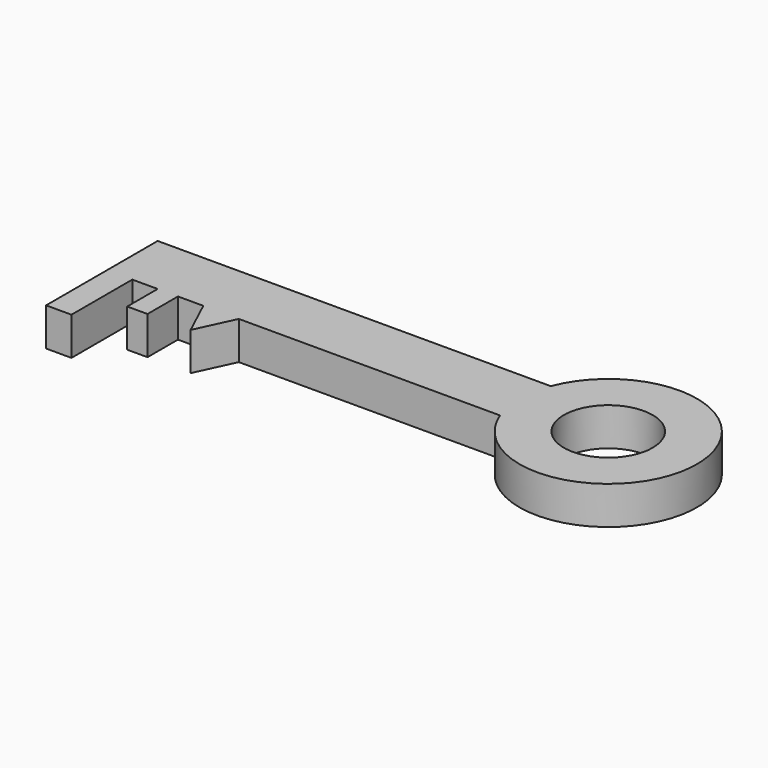
from build123d import *

# Parameters (mm, degrees)
F0_W     = 10
F0_H     = 30
F0_W_2   = 8
F0_H_2   = 15
F0_R     = 17.5
F1_DEPTH = 15


with BuildPart() as f1:
    # F0 (on Top) → F1 (new body)
    with BuildSketch(Plane.XY):
        with Locations((-56.75886, -44.358979)):
            Rectangle(F0_W, F0_H)
        with Locations((-37.75886, -36.858979)):
            Rectangle(F0_W_2, F0_H_2)
        Polygon((-16.75886, -44.358979), (-9.75886, -29.358979), (-23.75886, -29.358979), align=None)
        Polygon((93.24114, -4.358979), (-61.75886, -4.358979), (-61.75886, -29.358979), (-51.75886, -29.358979), (-41.75886, -29.358979), (-33.75886, -29.358979), (-23.75886, -29.358979), (-9.75886, -29.358979), (93.24114, -29.358979), align=None)
        with BuildLine():
            ThreePointArc((93.24114, -29.358979), (160.932882, -16.858979), (93.24114, -4.358979))
            Line((93.24114, -4.358979), (93.24114, -29.358979))
        make_face()
        with Locations((125.932882, -16.858979)):
            Circle(F0_R, mode=Mode.SUBTRACT)
    extrude(amount=F1_DEPTH)


solid = f1.part
